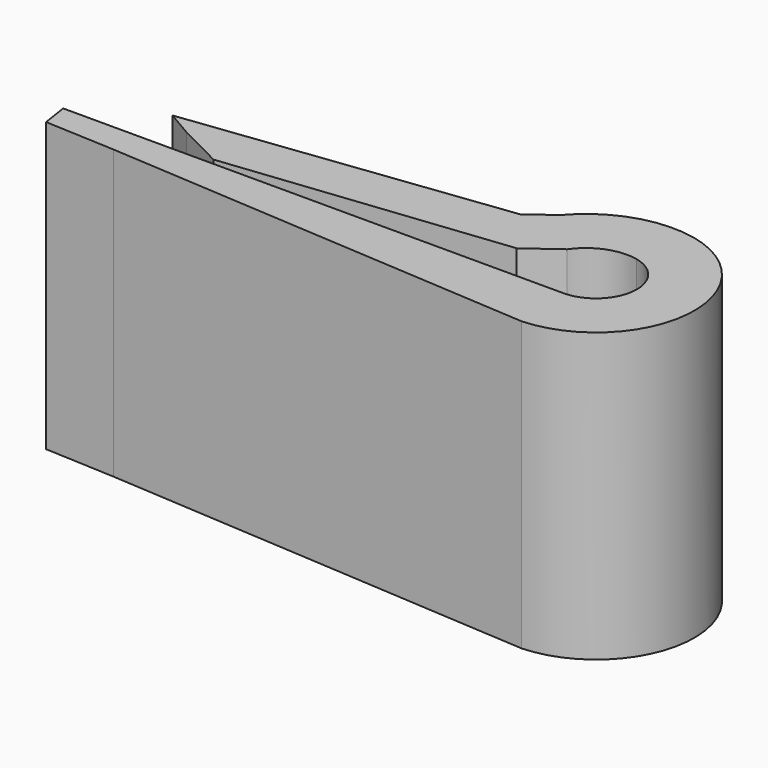
from build123d import *

# Parameters (mm, degrees)
F1_DEPTH = 25


with BuildPart() as f1:
    # F0 (on Top) → F1 (new body)
    with BuildSketch(Plane.XY):
        with BuildLine():
            Line((13.623481, -4.371734), (-26.376519, -4.371734))
            Line((-26.376519, -4.371734), (-29.797167, -4.371734))
            Line((-29.797167, -4.371734), (-29.447548, -6.660508))
            Line((-29.447548, -6.660508), (-23.35838, -6.952386))
            Line((-23.35838, -6.952386), (13.999148, -9.363469))
            ThreePointArc((13.999148, -9.363469), (22.135258, -1.545756), (15.41915, 7.521041))
            ThreePointArc((15.41915, 7.521041), (10.430023, 7.238243), (6.287368, 4.443646))
            Line((6.287368, 4.443646), (4.087332, 2.833403))
            Line((4.087332, 2.833403), (-23.35838, -0.546905))
            Line((-23.35838, -0.546905), (-21.123659, -1.855034))
            Line((-21.123659, -1.855034), (-17.144766, -3.871734))
            Line((-17.144766, -3.871734), (7.040433, -1.201346))
            Line((7.040433, -1.201346), (9.795501, 0.815135))
            ThreePointArc((9.795501, 0.815135), (11.805535, 2.418873), (14.368046, 2.632771))
            ThreePointArc((14.368046, 2.632771), (17.145464, -1.204289), (13.623481, -4.371734))
        make_face()
    extrude(amount=F1_DEPTH)


solid = f1.part
